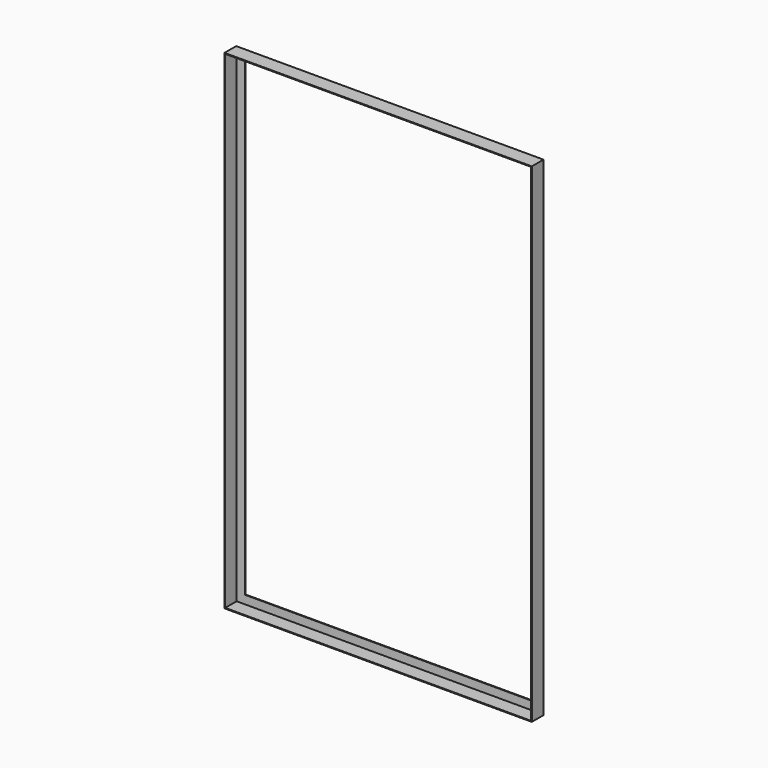
from build123d import *

# Parameters (mm, degrees)
F0_W     = 838
F0_H     = 1336
F0_W_2   = 792
F0_H_2   = 1290
F1_DEPTH = 1
F2_W     = 842
F2_H     = 1340
F2_W_2   = 838
F2_H_2   = 1336
F3_DEPTH = 40


with BuildPart() as f1:
    # F0 (on Front) → F1 (new body, symmetric)
    with BuildSketch(Plane.XZ):
        Rectangle(F0_W, F0_H)
        Rectangle(F0_W_2, F0_H_2, mode=Mode.SUBTRACT)
    extrude(amount=F1_DEPTH, both=True)


with BuildPart() as f3:
    # F2 (on face) → F3 (new body)
    with BuildSketch(Plane.XZ):
        Rectangle(F2_W, F2_H)
        Rectangle(F2_W_2, F2_H_2, mode=Mode.SUBTRACT)
    extrude(amount=F3_DEPTH)


solid = Compound([f1.part, f3.part])
